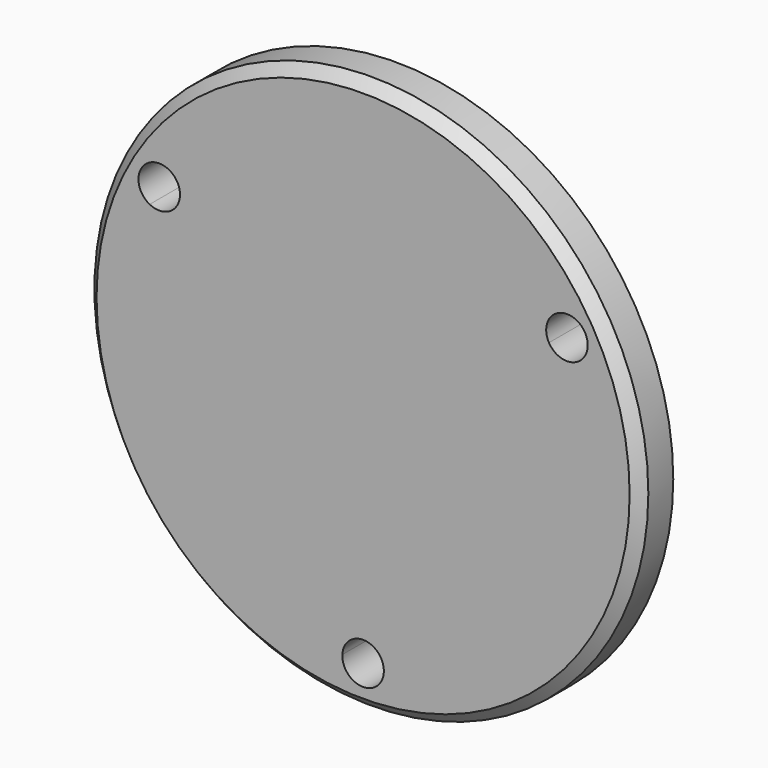
from build123d import *

# Parameters (mm, degrees)
F0_R     = 40
F1_DEPTH = 6
F2_SIZE  = 1.5
F4_DEPTH = 25


with BuildPart() as f1:
    # F0 (on Front) → F1 (new body)
    with BuildSketch(Plane.XZ):
        Circle(F0_R)
    extrude(amount=F1_DEPTH)

    # F2
    f2_edges = [f1.edges().sort_by_distance(p)[0] for p in [
        (-40, -6, 0),
    ]]
    chamfer(f2_edges, length=F2_SIZE)

    # F3 (on face) → F4 (cut)
    with BuildSketch(Plane.XZ.offset(6)):
        with BuildLine():
            ThreePointArc((-29.444864, 17), (-28.666195, 18.282486), (-27.831703, 19.52937))
            ThreePointArc((-27.831703, 19.52937), (-32.04294, 18.5), (-30.828782, 14.338277))
            ThreePointArc((-30.828782, 14.338277), (-30.166195, 15.68441), (-29.444864, 17))
        make_face()
        with BuildLine():
            ThreePointArc((-30.828782, 14.338277), (-28.604658, 14.12006), (-26.846788, 15.5))
            Line((-26.846788, 15.5), (-29.444864, 17))
            ThreePointArc((-29.444864, 17), (-30.166195, 15.68441), (-30.828782, 14.338277))
        make_face()
        with BuildLine():
            ThreePointArc((-26.444864, 17), (-26.814324, 18.44231), (-27.831703, 19.52937))
            ThreePointArc((-27.831703, 19.52937), (-28.666195, 18.282486), (-29.444864, 17))
            Line((-29.444864, 17), (-26.846788, 15.5))
            ThreePointArc((-26.846788, 15.5), (-26.547086, 16.223543), (-26.444864, 17))
        make_face()
        with BuildLine():
            ThreePointArc((29.444864, 17), (30.166195, 15.68441), (30.828782, 14.338277))
            ThreePointArc((30.828782, 14.338277), (32.009211, 15.443041), (32.444864, 17))
            ThreePointArc((32.444864, 17), (30.887174, 19.63054), (27.831703, 19.52937))
            ThreePointArc((27.831703, 19.52937), (28.666195, 18.282486), (29.444864, 17))
        make_face()
        with BuildLine():
            ThreePointArc((26.846788, 15.5), (28.604658, 14.12006), (30.828782, 14.338277))
            ThreePointArc((30.828782, 14.338277), (30.166195, 15.68441), (29.444864, 17))
            Line((29.444864, 17), (26.846788, 15.5))
        make_face()
        with BuildLine():
            Line((26.846788, 15.5), (29.444864, 17))
            ThreePointArc((29.444864, 17), (28.666195, 18.282486), (27.831703, 19.52937))
            ThreePointArc((27.831703, 19.52937), (26.53066, 17.712331), (26.846788, 15.5))
        make_face()
        with BuildLine():
            ThreePointArc((-2.997079, -33.867647), (-1.5, -33.966896), (0, -34))
            Line((0, -34), (0, -31))
            ThreePointArc((0, -31), (-2.073999, -31.832391), (-2.997079, -33.867647))
        make_face()
        with BuildLine():
            ThreePointArc((0, -34), (1.5, -33.966896), (2.997079, -33.867647))
            ThreePointArc((2.997079, -33.867647), (2.073999, -31.832391), (0, -31))
            Line((0, -31), (0, -34))
        make_face()
        with BuildLine():
            ThreePointArc((3, -34), (2.99927, -33.933807), (2.997079, -33.867647))
            ThreePointArc((2.997079, -33.867647), (1.5, -33.966896), (0, -34))
            ThreePointArc((0, -34), (-1.5, -33.966896), (-2.997079, -33.867647))
            ThreePointArc((-2.997079, -33.867647), (-0.066193, -36.99927), (3, -34))
        make_face()
    extrude(amount=-F4_DEPTH, mode=Mode.SUBTRACT)


solid = f1.part
